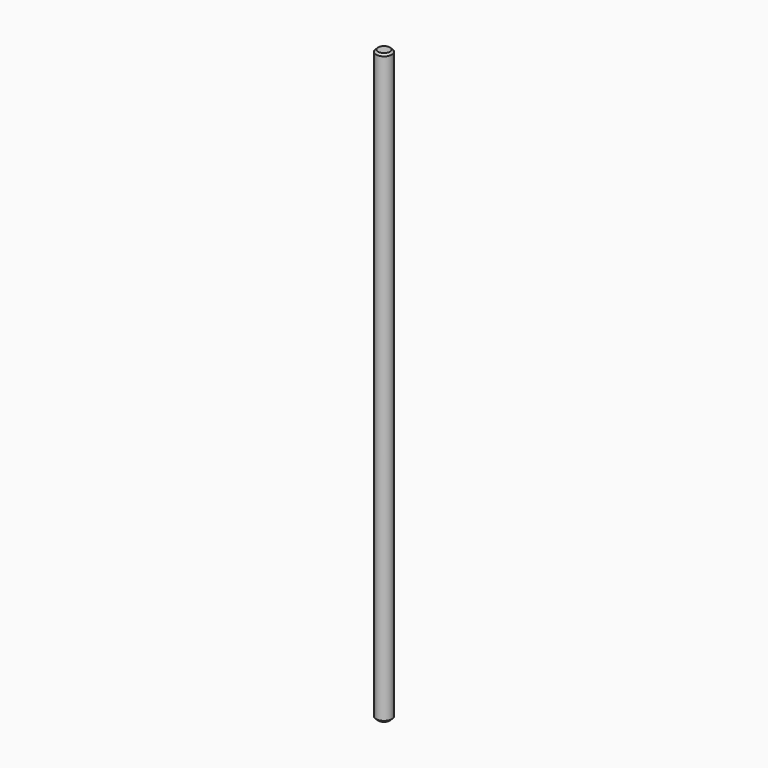
from build123d import *

# Parameters (mm, degrees)
SKETCH_R     = 4
PAD_DEPTH    = 300
CHAMFER_SIZE = 1


with BuildPart() as part:
    # Sketch → Pad (new body)
    with BuildSketch(Plane.XY):
        Circle(SKETCH_R)
    extrude(amount=PAD_DEPTH)

    # Chamfer
    chamfer_edges = [part.edges().sort_by_distance(p)[0] for p in [
        (-4, 0, 300),
        (-4, 0, 0),
    ]]
    chamfer(chamfer_edges, length=CHAMFER_SIZE)


solid = part.part
